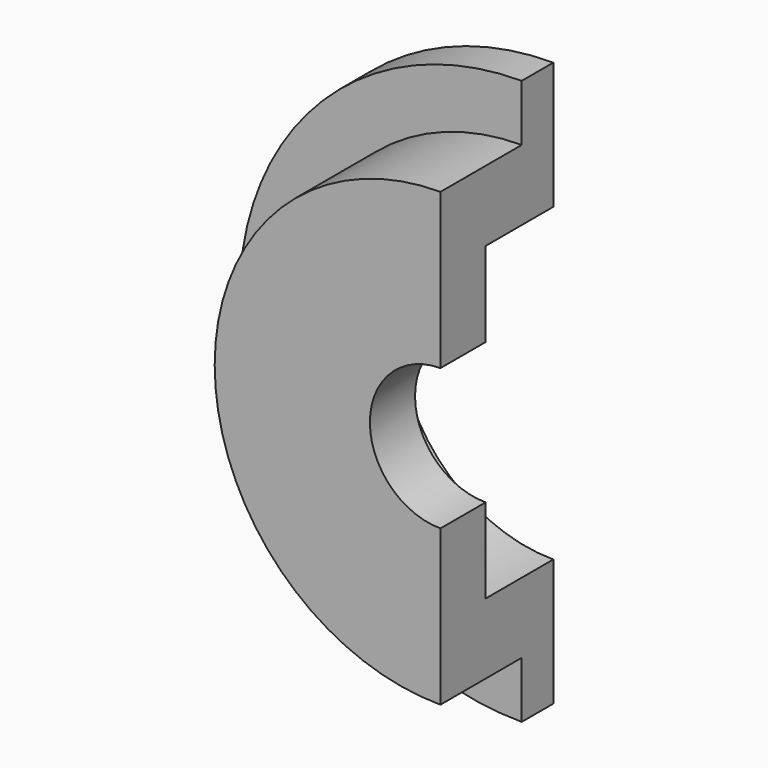
from build123d import *

# Parameters (mm, degrees)
F1_DEPTH = 25
F2_DEPTH = 7
F3_DEPTH = 15


with BuildPart() as f1:
    # F0 (on Front) → F1 (new body)
    with BuildSketch(Plane.XZ):
        with BuildLine():
            Line((0, 27.5), (0, 40))
            ThreePointArc((0, 40), (-40, 0), (0, -40))
            Line((0, -40), (0, -27.5))
            ThreePointArc((0, -27.5), (-27.5, 0), (0, 27.5))
        make_face()
        with BuildLine():
            Line((0, 12.5), (0, 27.5))
            ThreePointArc((0, 27.5), (-27.5, 0), (0, -27.5))
            Line((0, -27.5), (0, -12.5))
            ThreePointArc((0, -12.5), (-12.5, 0), (0, 12.5))
        make_face()
    extrude(amount=F1_DEPTH)

    # F0 (on Front) → F2 (join)
    with BuildSketch(Plane.XZ):
        with BuildLine():
            ThreePointArc((0, -40), (-40, 0), (0, 40))
            Line((0, 40), (0, 50))
            ThreePointArc((0, 50), (-50, 0), (0, -50))
            Line((0, -50), (0, -40))
        make_face()
    extrude(amount=F2_DEPTH)

    # F0 (on Front) → F3 (cut)
    with BuildSketch(Plane.XZ):
        with BuildLine():
            Line((0, 12.5), (0, 27.5))
            ThreePointArc((0, 27.5), (-27.5, 0), (0, -27.5))
            Line((0, -27.5), (0, -12.5))
            ThreePointArc((0, -12.5), (-12.5, 0), (0, 12.5))
        make_face()
    extrude(amount=F3_DEPTH, mode=Mode.SUBTRACT)


solid = f1.part
